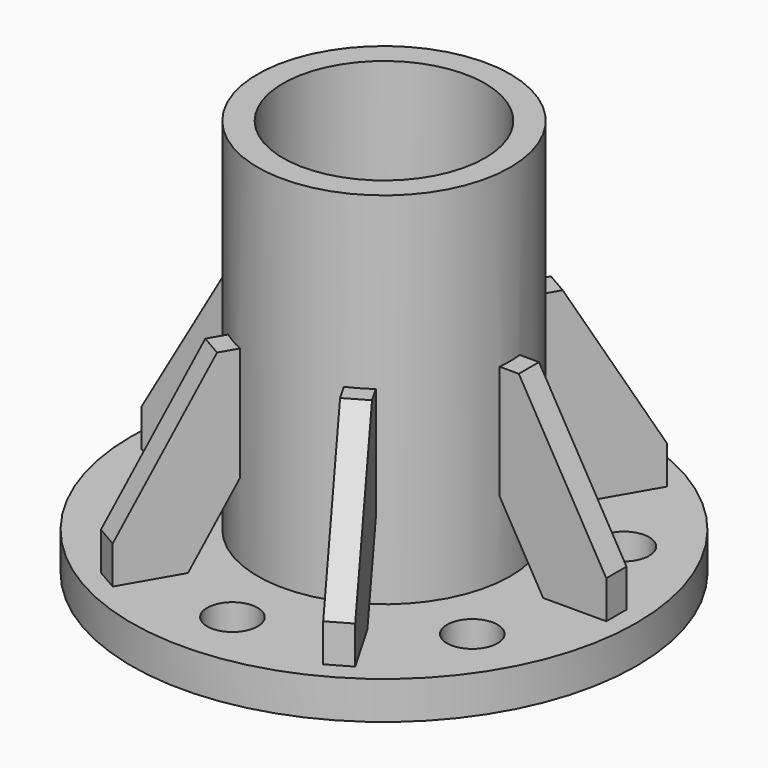
from build123d import *

# Parameters (mm, degrees)
F0_R     = 50
F0_R_2   = 40
F1_DEPTH = 157.5
F0_R_3   = 100
F0_R_4   = 10
F2_DEPTH = 15
F3_DEPTH = 7.5
F5_DEPTH = 5
F6_COUNT = 6


with BuildPart() as f1:
    # F0 (on Top) → F1 (new body)
    with BuildSketch(Plane.XY):
        Circle(F0_R)
        Circle(F0_R_2, mode=Mode.SUBTRACT)
    extrude(amount=F1_DEPTH)


with BuildPart() as f2:
    # F0 (on Top) → F2 (new body)
    with BuildSketch(Plane.XY):
        Circle(F0_R_3)
        with Locations((-64.9519052838, -37.5)):
            Circle(F0_R_4, mode=Mode.SUBTRACT)
        with Locations((0, -75)):
            Circle(F0_R_4, mode=Mode.SUBTRACT)
        with Locations((64.9519052838, -37.5)):
            Circle(F0_R_4, mode=Mode.SUBTRACT)
        with Locations((-64.9519052838, 37.5)):
            Circle(F0_R_4, mode=Mode.SUBTRACT)
        Circle(F0_R, mode=Mode.SUBTRACT)
        with Locations((64.9519052838, 37.5)):
            Circle(F0_R_4, mode=Mode.SUBTRACT)
        with Locations((0, 75)):
            Circle(F0_R_4, mode=Mode.SUBTRACT)
    extrude(amount=F2_DEPTH)


with BuildPart() as f3:
    # F0 (on Top) → F3 (new body)
    with BuildSketch(Plane.XY):
        Circle(F0_R)
        Circle(F0_R_2, mode=Mode.SUBTRACT)
        Circle(F0_R_2)
    extrude(amount=F3_DEPTH)


with BuildPart() as f5:
    # F4 (on Front) → F5 (new body, symmetric)
    with BuildSketch(Plane.XZ):
        Polygon((-92, 30), (-92, 15), (-67, 15), (-48, 47.9089653438), (-48, 90), (-57.3589838486, 90), align=None)
    extrude(amount=F5_DEPTH, both=True)


with BuildPart() as f6_1:
    # F6: instance of F5
    add(f5.part.rotate(Axis((0, 0, 41.3401086116), (0, 0, 1)), 1 * 360 / F6_COUNT))


with BuildPart() as f6_2:
    # F6: instance of F5
    add(f5.part.rotate(Axis((0, 0, 41.3401086116), (0, 0, 1)), 2 * 360 / F6_COUNT))


with BuildPart() as f6_3:
    # F6: instance of F5
    add(f5.part.rotate(Axis((0, 0, 41.3401086116), (0, 0, 1)), 3 * 360 / F6_COUNT))


with BuildPart() as f6_4:
    # F6: instance of F5
    add(f5.part.rotate(Axis((0, 0, 41.3401086116), (0, 0, 1)), 4 * 360 / F6_COUNT))


with BuildPart() as f6_5:
    # F6: instance of F5
    add(f5.part.rotate(Axis((0, 0, 41.3401086116), (0, 0, 1)), 5 * 360 / F6_COUNT))


with BuildPart() as f1_1:
    add(f1.part)

    # F7: cut F3
    add(f3.part, mode=Mode.SUBTRACT)

    # F8: cut F6_4, F6_3, F6_5, F5, F6_1, F6_2
    add(f6_4.part, mode=Mode.SUBTRACT)
    add(f6_3.part, mode=Mode.SUBTRACT)
    add(f6_5.part, mode=Mode.SUBTRACT)
    add(f5.part, mode=Mode.SUBTRACT)
    add(f6_1.part, mode=Mode.SUBTRACT)
    add(f6_2.part, mode=Mode.SUBTRACT)


solid = Compound([f2.part, f3.part, f5.part, f6_1.part, f6_2.part, f6_3.part, f6_4.part, f6_5.part, f1_1.part])
